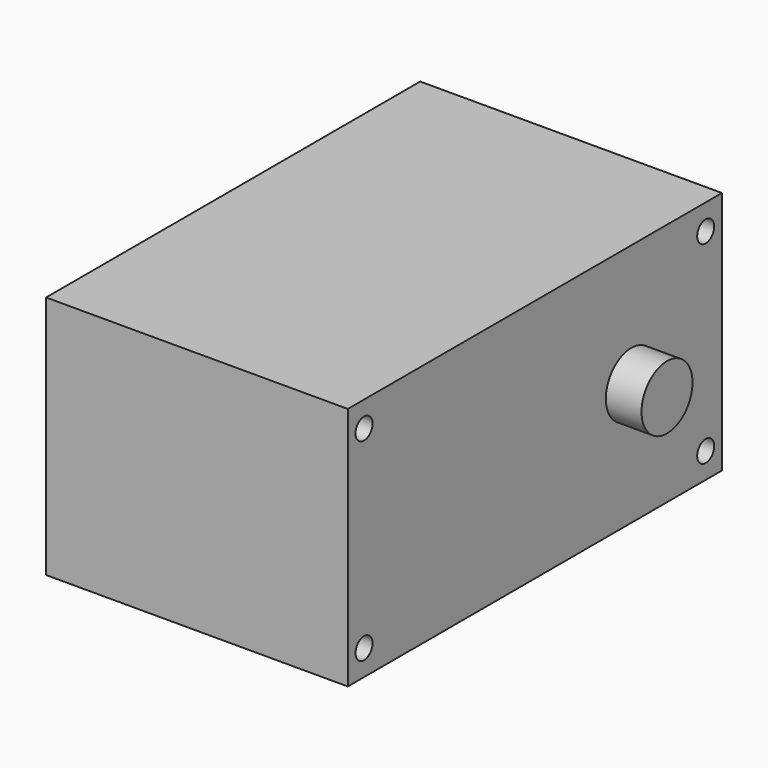
from build123d import *

# Parameters (mm, degrees)
SKETCH036_W  = 44.02
SKETCH036_H  = 23
SKETCH036_R  = 1
PAD032_DEPTH = 14.2
SKETCH037_R  = 3
PAD033_DEPTH = 3.36


with BuildPart() as part:
    # Sketch036 → Pad032 (new body, symmetric)
    with BuildSketch(Plane.YZ):
        Rectangle(SKETCH036_W, SKETCH036_H)
        with Locations((-20.1, -9.1)):
            Circle(SKETCH036_R, mode=Mode.SUBTRACT)
        with Locations((20.1, -9.1)):
            Circle(SKETCH036_R, mode=Mode.SUBTRACT)
        with Locations((-20.1, 9.1)):
            Circle(SKETCH036_R, mode=Mode.SUBTRACT)
        with Locations((20.1, 9.1)):
            Circle(SKETCH036_R, mode=Mode.SUBTRACT)
    extrude(amount=PAD032_DEPTH, both=True)

    # Sketch037 (on Face10 of Pad032) → Pad033 (join)
    with BuildSketch(Plane.YZ.offset(14.2)):
        with Locations((11.35, 0)):
            Circle(SKETCH037_R)
    pad033 = extrude(amount=PAD033_DEPTH)

    # Mirrored001: Pad033 across YZ
    add(pad033.mirror(Plane.YZ))


solid = part.part
